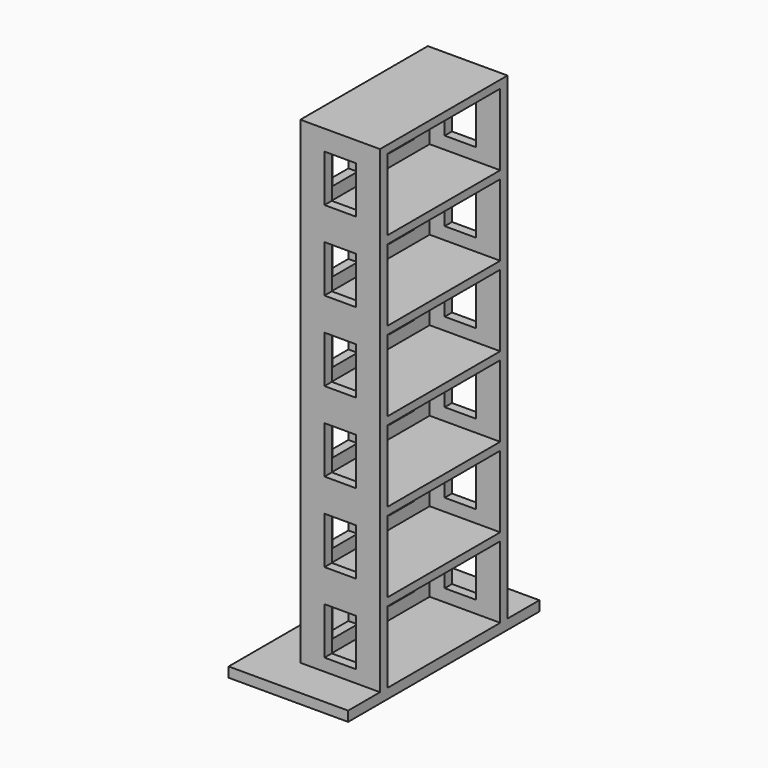
from build123d import *

# Parameters (mm, degrees)
F0_W      = 30.48
F0_H      = 30.48
F1_DEPTH  = 1.27
F2_W      = 20.32
F2_H      = 20.32
F2_W_2    = 18
F2_H_2    = 18
F3_DEPTH  = 60.96
F5_DEPTH  = 74.4
F6_W      = 9
F6_H      = 1
F7_DEPTH  = 9
F8_W      = 4
F8_H      = 3
F9_DEPTH  = 53.6
F11_DEPTH = 68.5


with BuildPart() as f1:
    # F0 (on Top) → F1 (new body)
    with BuildSketch(Plane.XY):
        Rectangle(F0_W, F0_H)
    extrude(amount=F1_DEPTH)

    # F2 (on face) → F3 (join)
    with BuildSketch(Plane.XY.offset(1.27)):
        Rectangle(F2_W, F2_H)
        Rectangle(F2_W_2, F2_H_2, mode=Mode.SUBTRACT)
    extrude(amount=F3_DEPTH)

    # F4 (on Top) → F5 (cut)
    with BuildSketch(Plane.XY):
        Polygon((0, 23.4475191683), (0, -30.1982481033), (25.5301650614, -30.3230863065), (25.5301650614, 23.4475191683), align=None)
    extrude(amount=F5_DEPTH, mode=Mode.SUBTRACT)

    # F6 (on face) → F7 (join)
    with BuildSketch(Plane.YZ.offset(-9)):
        with Locations((-4.5, 10.93)):
            Rectangle(F6_W, F6_H)
        with Locations((-4.5, 61.73)):
            Rectangle(F6_W, F6_H)
        with Locations((4.5, 61.73)):
            Rectangle(F6_W, F6_H)
        with Locations((-4.5, 51.57)):
            Rectangle(F6_W, F6_H)
        with Locations((4.5, 51.57)):
            Rectangle(F6_W, F6_H)
        with Locations((-4.5, 41.41)):
            Rectangle(F6_W, F6_H)
        with Locations((4.5, 41.41)):
            Rectangle(F6_W, F6_H)
        with Locations((-4.5, 31.25)):
            Rectangle(F6_W, F6_H)
        with Locations((4.5, 31.25)):
            Rectangle(F6_W, F6_H)
        with Locations((-4.5, 21.09)):
            Rectangle(F6_W, F6_H)
        with Locations((4.5, 21.09)):
            Rectangle(F6_W, F6_H)
        with Locations((4.5, 10.93)):
            Rectangle(F6_W, F6_H)
    extrude(amount=F7_DEPTH)

    # F8 (on face) → F9 (cut)
    with BuildSketch(Plane.YZ):
        with Locations((4.5, 7.35)):
            Rectangle(F8_W, F8_H)
        with Locations((4.5, 4.35)):
            Rectangle(F8_W, F8_H)
        with Locations((-4.5, 4.35)):
            Rectangle(F8_W, F8_H)
        with Locations((-4.5, 7.35)):
            Rectangle(F8_W, F8_H)
        with Locations((-4.5, 14.51)):
            Rectangle(F8_W, F8_H)
        with Locations((-4.5, 17.51)):
            Rectangle(F8_W, F8_H)
        with Locations((-4.5, 24.67)):
            Rectangle(F8_W, F8_H)
        with Locations((-4.5, 27.67)):
            Rectangle(F8_W, F8_H)
        with Locations((4.5, 27.67)):
            Rectangle(F8_W, F8_H)
        with Locations((4.5, 24.67)):
            Rectangle(F8_W, F8_H)
        with Locations((4.5, 17.51)):
            Rectangle(F8_W, F8_H)
        with Locations((4.5, 14.51)):
            Rectangle(F8_W, F8_H)
        with Locations((4.5, 34.83)):
            Rectangle(F8_W, F8_H)
        with Locations((-4.5, 34.83)):
            Rectangle(F8_W, F8_H)
        with Locations((-4.5, 37.83)):
            Rectangle(F8_W, F8_H)
        with Locations((4.5, 37.83)):
            Rectangle(F8_W, F8_H)
        with Locations((-4.5, 55.15)):
            Rectangle(F8_W, F8_H)
        with Locations((-4.5, 58.15)):
            Rectangle(F8_W, F8_H)
        with Locations((4.5, 58.15)):
            Rectangle(F8_W, F8_H)
        with Locations((4.5, 55.15)):
            Rectangle(F8_W, F8_H)
        with Locations((4.5, 47.99)):
            Rectangle(F8_W, F8_H)
        with Locations((4.5, 44.99)):
            Rectangle(F8_W, F8_H)
        with Locations((-4.5, 44.99)):
            Rectangle(F8_W, F8_H)
        with Locations((-4.5, 47.99)):
            Rectangle(F8_W, F8_H)
    extrude(amount=-F9_DEPTH, mode=Mode.SUBTRACT)

    # F10 (on face) → F11 (cut)
    with BuildSketch(Plane.XZ.offset(10.16)):
        Polygon((-7.08, 34.5268503937), (-5.08, 36.33), (-7.08, 36.33), align=None)
        Polygon((-5.08, 33.33), (-5.08, 36.33), (-7.08, 34.5268503937), (-7.08, 33.33), align=None)
        Polygon((-3.08, 34.5268503937), (-5.08, 36.33), (-5.08, 33.33), (-3.08, 33.33), align=None)
        Polygon((-3.08, 34.5268503937), (-3.08, 36.33), (-5.08, 36.33), align=None)
        Polygon((-3.08, 36.33), (-3.08, 38.1331496063), (-5.08, 36.33), align=None)
        Polygon((-5.08, 36.33), (-3.08, 38.1331496063), (-3.08, 39.33), (-5.08, 39.33), align=None)
        Polygon((-7.08, 39.33), (-7.08, 38.1331496063), (-5.08, 36.33), (-5.08, 39.33), align=None)
        Polygon((-5.08, 36.33), (-7.08, 38.1331496063), (-7.08, 36.33), align=None)
        Polygon((-3.08, 44.6868503937), (-5.08, 46.49), (-5.08, 43.49), (-3.08, 43.49), align=None)
        Polygon((-3.08, 44.6868503937), (-3.08, 46.49), (-5.08, 46.49), align=None)
        Polygon((-3.08, 46.49), (-3.08, 48.2931496063), (-5.08, 46.49), align=None)
        Polygon((-5.08, 46.49), (-3.08, 48.2931496063), (-3.08, 49.49), (-5.08, 49.49), align=None)
        Polygon((-7.08, 49.49), (-7.08, 48.2931496063), (-5.08, 46.49), (-5.08, 49.49), align=None)
        Polygon((-5.08, 46.49), (-7.08, 48.2931496063), (-7.08, 46.49), align=None)
        Polygon((-7.08, 44.6868503937), (-5.08, 46.49), (-7.08, 46.49), align=None)
        Polygon((-5.08, 43.49), (-5.08, 46.49), (-7.08, 44.6868503937), (-7.08, 43.49), align=None)
        Polygon((-5.08, 53.65), (-5.08, 56.65), (-7.08, 54.8468503937), (-7.08, 53.65), align=None)
        Polygon((-7.08, 54.8468503937), (-5.08, 56.65), (-7.08, 56.65), align=None)
        Polygon((-7.08, 56.65), (-5.08, 56.65), (-7.08, 58.4531496063), align=None)
        Polygon((-5.08, 56.65), (-5.08, 59.65), (-7.08, 59.65), (-7.08, 58.4531496063), align=None)
        Polygon((-3.08, 59.65), (-5.08, 59.65), (-5.08, 56.65), (-3.08, 58.4531496063), align=None)
        Polygon((-3.08, 58.4531496063), (-5.08, 56.65), (-3.08, 56.65), align=None)
        Polygon((-3.08, 56.65), (-5.08, 56.65), (-3.08, 54.8468503937), align=None)
        Polygon((-3.08, 54.8468503937), (-5.08, 56.65), (-5.08, 53.65), (-3.08, 53.65), align=None)
        Polygon((-3.08, 24.3668503937), (-5.08, 26.17), (-5.08, 23.17), (-3.08, 23.17), align=None)
        Polygon((-5.08, 23.17), (-5.08, 26.17), (-7.08, 24.3668503937), (-7.08, 23.17), align=None)
        Polygon((-7.08, 29.17), (-7.08, 27.9731496063), (-5.08, 26.17), (-5.08, 29.17), align=None)
        Polygon((-5.08, 26.17), (-3.08, 27.9731496063), (-3.08, 29.17), (-5.08, 29.17), align=None)
        Polygon((-3.08, 24.3668503937), (-3.08, 26.17), (-5.08, 26.17), align=None)
        Polygon((-3.08, 26.17), (-3.08, 27.9731496063), (-5.08, 26.17), align=None)
        Polygon((-5.08, 26.17), (-7.08, 27.9731496063), (-7.08, 26.17), align=None)
        Polygon((-7.08, 24.3668503937), (-5.08, 26.17), (-7.08, 26.17), align=None)
        Polygon((-7.08, 19.01), (-7.08, 17.8131496063), (-5.08, 16.01), (-5.08, 19.01), align=None)
        Polygon((-5.08, 16.01), (-7.08, 17.8131496063), (-7.08, 16.01), align=None)
        Polygon((-7.08, 14.2068503937), (-5.08, 16.01), (-7.08, 16.01), align=None)
        Polygon((-5.08, 13.01), (-5.08, 16.01), (-7.08, 14.2068503937), (-7.08, 13.01), align=None)
        Polygon((-3.08, 14.2068503937), (-5.08, 16.01), (-5.08, 13.01), (-3.08, 13.01), align=None)
        Polygon((-3.08, 14.2068503937), (-3.08, 16.01), (-5.08, 16.01), align=None)
        Polygon((-3.08, 16.01), (-3.08, 17.8131496063), (-5.08, 16.01), align=None)
        Polygon((-5.08, 16.01), (-3.08, 17.8131496063), (-3.08, 19.01), (-5.08, 19.01), align=None)
        Polygon((-7.08, 8.85), (-7.08, 7.6531496063), (-5.08, 5.85), (-5.08, 8.85), align=None)
        Polygon((-5.08, 5.85), (-3.08, 7.6531496063), (-3.08, 8.85), (-5.08, 8.85), align=None)
        Polygon((-3.08, 5.85), (-3.08, 7.6531496063), (-5.08, 5.85), align=None)
        Polygon((-3.08, 4.0468503937), (-3.08, 5.85), (-5.08, 5.85), align=None)
        Polygon((-3.08, 4.0468503937), (-5.08, 5.85), (-5.08, 2.85), (-3.08, 2.85), align=None)
        Polygon((-5.08, 2.85), (-5.08, 5.85), (-7.08, 4.0468503937), (-7.08, 2.85), align=None)
        Polygon((-7.08, 4.0468503937), (-5.08, 5.85), (-7.08, 5.85), align=None)
        Polygon((-5.08, 5.85), (-7.08, 7.6531496063), (-7.08, 5.85), align=None)
    extrude(amount=-F11_DEPTH, mode=Mode.SUBTRACT)


solid = f1.part
